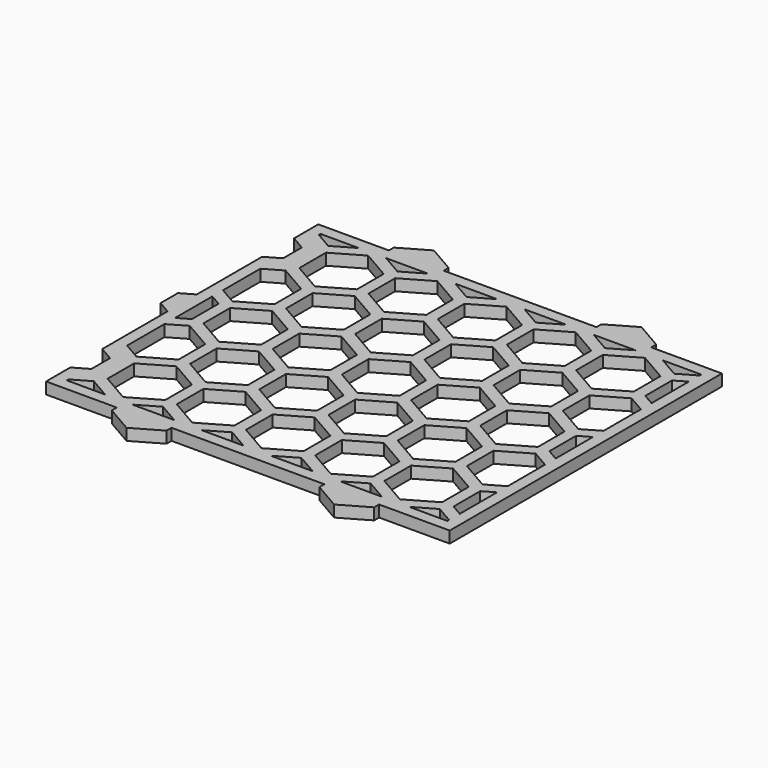
from build123d import *

# Parameters (mm, degrees)
F0_W     = 140
F0_H     = 118
F0_W_2   = 132
F0_H_2   = 110
F1_DEPTH = 4
F2_W     = 140
F2_H     = 118
F3_DEPTH = 4
F5_DEPTH = 4
F7_DEPTH = 4
F9_DEPTH = 4.001


with BuildPart() as f1:
    # F0 (on Top) → F1 (new body)
    with BuildSketch(Plane.XY):
        Rectangle(F0_W, F0_H)
        Rectangle(F0_W_2, F0_H_2, mode=Mode.SUBTRACT)
    extrude(amount=F1_DEPTH)

    # F2 (on Top) → F3 (join, through all)
    with BuildSketch(Plane.XY):
        Rectangle(F2_W, F2_H)
        Polygon((-66, -54.272487), (-60, -50.808385), (-52.73991, -55), (-66, -55), align=None, mode=Mode.SUBTRACT)
        Polygon((-43.26009, -55), (-36, -50.808385), (-28.73991, -55), align=None, mode=Mode.SUBTRACT)
        Polygon((-62, -35.796497), (-62, -47.343503), (-66, -49.652904), (-66, -33.487096), align=None, mode=Mode.SUBTRACT)
        Polygon((-38, -35.796497), (-38, -47.343503), (-48, -53.117005), (-58, -47.343503), (-58, -35.796497), (-48, -30.022995), align=None, mode=Mode.SUBTRACT)
        Polygon((-19.26009, -55), (-12, -50.808385), (-4.73991, -55), align=None, mode=Mode.SUBTRACT)
        Polygon((-14, -35.796497), (-14, -47.343503), (-24, -53.117005), (-34, -47.343503), (-34, -35.796497), (-24, -30.022995), align=None, mode=Mode.SUBTRACT)
        Polygon((-60, -9.238385), (-50, -15.011888), (-50, -26.558893), (-60, -32.332396), (-66, -28.868294), (-66, -12.702487), align=None, mode=Mode.SUBTRACT)
        Polygon((-36, -9.238385), (-26, -15.011888), (-26, -26.558893), (-36, -32.332396), (-46, -26.558893), (-46, -15.011888), align=None, mode=Mode.SUBTRACT)
        Polygon((-12, -9.238385), (-2, -15.011888), (-2, -26.558893), (-12, -32.332396), (-22, -26.558893), (-22, -15.011888), align=None, mode=Mode.SUBTRACT)
        Polygon((4.73991, -55), (12, -50.808385), (19.26009, -55), align=None, mode=Mode.SUBTRACT)
        Polygon((10, -35.796497), (10, -47.343503), (0, -53.117005), (-10, -47.343503), (-10, -35.796497), (0, -30.022995), align=None, mode=Mode.SUBTRACT)
        Polygon((34, -35.796497), (34, -47.343503), (24, -53.117005), (14, -47.343503), (14, -35.796497), (24, -30.022995), align=None, mode=Mode.SUBTRACT)
        Polygon((28.73991, -55), (36, -50.808385), (43.26009, -55), align=None, mode=Mode.SUBTRACT)
        Polygon((52.73991, -55), (60, -50.808385), (66, -54.272487), (66, -55), align=None, mode=Mode.SUBTRACT)
        Polygon((58, -35.796497), (58, -47.343503), (48, -53.117005), (38, -47.343503), (38, -35.796497), (48, -30.022995), align=None, mode=Mode.SUBTRACT)
        Polygon((66, -33.487096), (66, -49.652904), (62, -47.343503), (62, -35.796497), align=None, mode=Mode.SUBTRACT)
        Polygon((12, -9.238385), (22, -15.011888), (22, -26.558893), (12, -32.332396), (2, -26.558893), (2, -15.011888), align=None, mode=Mode.SUBTRACT)
        Polygon((36, -9.238385), (46, -15.011888), (46, -26.558893), (36, -32.332396), (26, -26.558893), (26, -15.011888), align=None, mode=Mode.SUBTRACT)
        Polygon((50, -15.011888), (60, -9.238385), (66, -12.702487), (66, -28.868294), (60, -32.332396), (50, -26.558893), align=None, mode=Mode.SUBTRACT)
        Polygon((-62, 5.773503), (-62, -5.773503), (-66, -8.082904), (-66, 8.082904), align=None, mode=Mode.SUBTRACT)
        Polygon((-38, 5.773503), (-38, -5.773503), (-48, -11.547005), (-58, -5.773503), (-58, 5.773503), (-48, 11.547005), align=None, mode=Mode.SUBTRACT)
        Polygon((-60, 32.331615), (-50, 26.558112), (-50, 15.011107), (-60, 9.237604), (-66, 12.701706), (-66, 28.867513), align=None, mode=Mode.SUBTRACT)
        Polygon((-36, 32.331615), (-26, 26.558112), (-26, 15.011107), (-36, 9.237604), (-46, 15.011107), (-46, 26.558112), align=None, mode=Mode.SUBTRACT)
        Polygon((-14, 5.773503), (-14, -5.773503), (-24, -11.547005), (-34, -5.773503), (-34, 5.773503), (-24, 11.547005), align=None, mode=Mode.SUBTRACT)
        Polygon((-12, 32.331615), (-2, 26.558112), (-2, 15.011107), (-12, 9.237604), (-22, 15.011107), (-22, 26.558112), align=None, mode=Mode.SUBTRACT)
        Polygon((-62, 47.343503), (-62, 35.796497), (-66, 33.487096), (-66, 49.652904), align=None, mode=Mode.SUBTRACT)
        Polygon((-38, 47.343503), (-38, 35.796497), (-48, 30.022995), (-58, 35.796497), (-58, 47.343503), (-48, 53.117005), align=None, mode=Mode.SUBTRACT)
        Polygon((-52.738558, 55), (-60, 50.807604), (-66, 54.271706), (-66, 55), align=None, mode=Mode.SUBTRACT)
        Polygon((-28.738558, 55), (-36, 50.807604), (-43.261442, 55), align=None, mode=Mode.SUBTRACT)
        Polygon((-14, 47.343503), (-14, 35.796497), (-24, 30.022995), (-34, 35.796497), (-34, 47.343503), (-24, 53.117005), align=None, mode=Mode.SUBTRACT)
        Polygon((-4.738558, 55), (-12, 50.807604), (-19.261442, 55), align=None, mode=Mode.SUBTRACT)
        Polygon((10, 5.773503), (10, -5.773503), (0, -11.547005), (-10, -5.773503), (-10, 5.773503), (0, 11.547005), align=None, mode=Mode.SUBTRACT)
        Polygon((34, 5.773503), (34, -5.773503), (24, -11.547005), (14, -5.773503), (14, 5.773503), (24, 11.547005), align=None, mode=Mode.SUBTRACT)
        Polygon((12, 32.331615), (22, 26.558112), (22, 15.011107), (12, 9.237604), (2, 15.011107), (2, 26.558112), align=None, mode=Mode.SUBTRACT)
        Polygon((58, 5.773503), (58, -5.773503), (48, -11.547005), (38, -5.773503), (38, 5.773503), (48, 11.547005), align=None, mode=Mode.SUBTRACT)
        Polygon((66, 8.082904), (66, -8.082904), (62, -5.773503), (62, 5.773503), align=None, mode=Mode.SUBTRACT)
        Polygon((36, 32.331615), (46, 26.558112), (46, 15.011107), (36, 9.237604), (26, 15.011107), (26, 26.558112), align=None, mode=Mode.SUBTRACT)
        Polygon((50, 26.558112), (60, 32.331615), (66, 28.867513), (66, 12.701706), (60, 9.237604), (50, 15.011107), align=None, mode=Mode.SUBTRACT)
        Polygon((10, 47.343503), (10, 35.796497), (0, 30.022995), (-10, 35.796497), (-10, 47.343503), (0, 53.117005), align=None, mode=Mode.SUBTRACT)
        Polygon((34, 47.343503), (34, 35.796497), (24, 30.022995), (14, 35.796497), (14, 47.343503), (24, 53.117005), align=None, mode=Mode.SUBTRACT)
        Polygon((19.261442, 55), (12, 50.807604), (4.738558, 55), align=None, mode=Mode.SUBTRACT)
        Polygon((58, 47.343503), (58, 35.796497), (48, 30.022995), (38, 35.796497), (38, 47.343503), (48, 53.117005), align=None, mode=Mode.SUBTRACT)
        Polygon((66, 49.652904), (66, 33.487096), (62, 35.796497), (62, 47.343503), align=None, mode=Mode.SUBTRACT)
        Polygon((43.261442, 55), (36, 50.807604), (28.738558, 55), align=None, mode=Mode.SUBTRACT)
        Polygon((66, 54.271706), (60, 50.807604), (52.738558, 55), (66, 55), align=None, mode=Mode.SUBTRACT)
    extrude(amount=F3_DEPTH)

    # F4 (on Top) → F5 (join, through all)
    with BuildSketch(Plane.XY):
        Polygon((-62, -35.796497), (-70, -31.177695), (-70, -51.962305), (-62, -47.343503), align=None)
        Polygon((-70, 31.177695), (-62, 35.796497), (-62, 47.343503), (-70, 51.962305), align=None)
    extrude(amount=F5_DEPTH)

    # F6 (on Top) → F7 (join, through all)
    with BuildSketch(Plane.XY):
        Polygon((-74.5, -3.752777), (-70, -6.350853), (-70, 6.350853), (-74.5, 3.752777), align=None)
        Polygon((-45.5, 59), (-26.5, 59), (-26.5, 61.142174), (-36, 66.627002), (-45.5, 61.142174), align=None)
        Polygon((26.5, 59), (45.5, 59), (45.5, 61.142174), (36, 66.627002), (26.5, 61.142174), align=None)
        Polygon((45.5, -59), (26.5, -59), (26.5, -61.142174), (36, -66.627002), (45.5, -61.142174), align=None)
        Polygon((-45.5, -59), (-45.5, -61.142174), (-36, -66.627002), (-26.5, -61.142174), (-26.5, -59), align=None)
    extrude(amount=F7_DEPTH)

    # F8 (on Top) → F9 (cut, through all)
    with BuildSketch(Plane.XY):
        Polygon((-70, 34.641797), (-65, 37.528548), (-65, 45.611452), (-70, 48.498203), align=None)
        Polygon((-70, -48.498203), (-65, -45.611452), (-65, -37.528548), (-70, -34.641797), align=None)
    extrude(amount=F9_DEPTH, mode=Mode.SUBTRACT)


solid = f1.part
